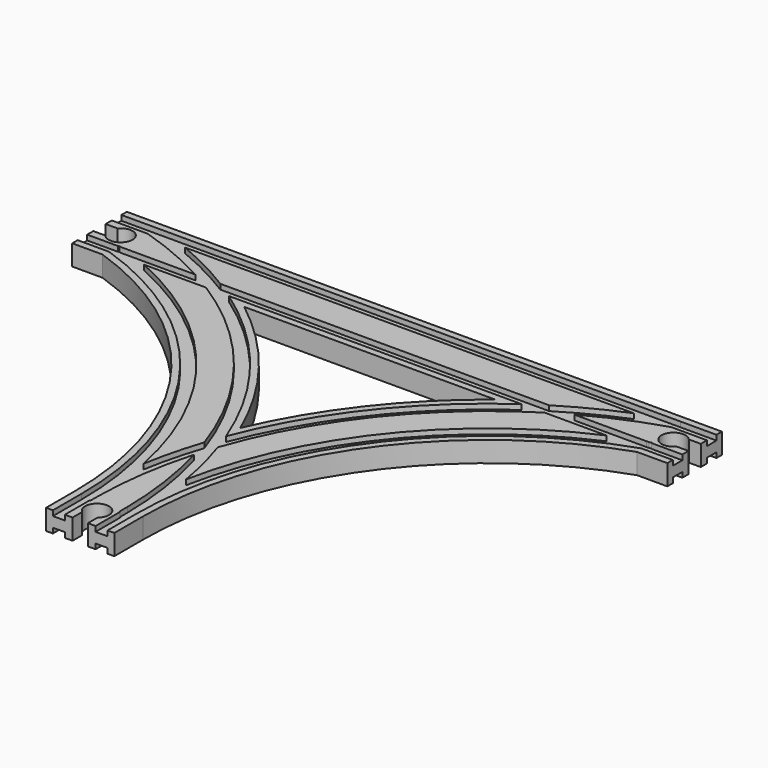
from build123d import *

# Parameters (mm, degrees)
SKETCH006_W          = 7
SKETCH006_H          = 3
SKETCH007_W          = 7
SKETCH007_H          = 3
SKETCH008_W          = 7
SKETCH008_H          = 3
SKETCH009_W          = 7
SKETCH009_H          = 3
SKETCH010_W          = 7
SKETCH010_H          = 3
SKETCH011_W          = 7
SKETCH011_H          = 3
SKETCH012_W          = 7
SKETCH012_H          = 3
SKETCH013_W          = 7
SKETCH013_H          = 3
SKETCH014_W          = 7
SKETCH014_H          = 3
SKETCH015_W          = 7
SKETCH015_H          = 3
SKETCH016_W          = 7
SKETCH016_H          = 3
SKETCH017_W          = 7
SKETCH017_H          = 3
POCKET_DEPTH         = 6.001
POCKET_DEPTH_BACK    = 6.001
POCKET001_DEPTH      = 6.001
POCKET001_DEPTH_BACK = 6.001
POCKET002_DEPTH      = 6.001
POCKET002_DEPTH_BACK = 6.001


with BuildPart() as part:
    # AdditivePipe: sweep along a path in Sketch
    with BuildLine(Plane.XY) as additivepipe_path:
        ThreePointArc((0, 0), (-42.398227, 130.488326), (-153.398227, 211.134547))
    # Sketch003 (on DatumPlane) → AdditivePipe (sweep)
    with BuildSketch(Plane.XZ):
        Polygon((-20, 6), (-20, -6), (-16, -6), (-16, -3), (-9, -3), (-9, -6), (9, -6), (9, -3), (16, -3), (16, -6), (20, -6), (20, 6), (16, 6), (16, 3), (9, 3), (9, 6), (-9, 6), (-9, 3), (-16, 3), (-16, 6), align=None)
    sweep(path=additivepipe_path.line)

    # AdditivePipe001: sweep along a path in Sketch001
    with BuildLine(Plane.XY) as additivepipe001_path:
        ThreePointArc((153.398227, 211.134547), (42.398227, 130.488326), (0, 0))
    # Sketch003 (on DatumPlane) → AdditivePipe001 (sweep)
    with BuildSketch(Plane.XZ):
        Polygon((-20, 6), (-20, -6), (-16, -6), (-16, -3), (-9, -3), (-9, -6), (9, -6), (9, -3), (16, -3), (16, -6), (20, -6), (20, 6), (16, 6), (16, 3), (9, 3), (9, 6), (-9, 6), (-9, 3), (-16, 3), (-16, 6), align=None)
    sweep(path=additivepipe001_path.line)

    # AdditivePipe002: sweep along a path in Sketch002
    with BuildLine(Plane.XY) as additivepipe002_path:
        Line((-174.398227, 211.134547), (-153.398227, 211.134547))
        Line((-153.398227, 211.134547), (153.398227, 211.134547))
        Line((153.398227, 211.134547), (174.398227, 211.134547))
    # Sketch004 (on DatumPlane) → AdditivePipe002 (sweep)
    with BuildSketch(Plane(origin=(-153.398227, 211.134547, 0), x_dir=(0, 1, 0), z_dir=(1, 0, 0))):
        Polygon((-20, 6), (-20, -6), (-16, -6), (-16, -3), (-9, -3), (-9, -6), (9, -6), (9, -3), (16, -3), (16, -6), (20, -6), (20, 6), (16, 6), (16, 3), (9, 3), (9, 6), (-9, 6), (-9, 3), (-16, 3), (-16, 6), align=None)
    sweep(path=additivepipe002_path.line)

    # AdditivePipe003: sweep along a path in Sketch005
    with BuildLine(Plane.XY) as additivepipe003_path:
        Line((0, 0), (0, -21))
    # Sketch003 (on DatumPlane) → AdditivePipe003 (sweep)
    with BuildSketch(Plane.XZ):
        Polygon((-20, 6), (-20, -6), (-16, -6), (-16, -3), (-9, -3), (-9, -6), (9, -6), (9, -3), (16, -3), (16, -6), (20, -6), (20, 6), (16, 6), (16, 3), (9, 3), (9, 6), (-9, 6), (-9, 3), (-16, 3), (-16, 6), align=None)
    sweep(path=additivepipe003_path.line)

    # SubtractivePipe: sweep along a path in Sketch
    with BuildLine(Plane.XY) as subtractivepipe_path:
        ThreePointArc((0, 0), (-42.398227, 130.488326), (-153.398227, 211.134547))
    # Sketch006 (on DatumPlane) → SubtractivePipe (sweep, cut)
    with BuildSketch(Plane.XZ):
        with Locations((-12.5, 4.5)):
            Rectangle(SKETCH006_W, SKETCH006_H)
    sweep(path=subtractivepipe_path.line, mode=Mode.SUBTRACT)

    # SubtractivePipe001: sweep along a path in Sketch001
    with BuildLine(Plane.XY) as subtractivepipe001_path:
        ThreePointArc((153.398227, 211.134547), (42.398227, 130.488326), (0, 0))
    # Sketch006 (on DatumPlane) → SubtractivePipe001 (sweep, cut)
    with BuildSketch(Plane.XZ):
        with Locations((-12.5, 4.5)):
            Rectangle(SKETCH006_W, SKETCH006_H)
    sweep(path=subtractivepipe001_path.line, mode=Mode.SUBTRACT)

    # SubtractivePipe002: sweep along a path in Sketch
    with BuildLine(Plane.XY) as subtractivepipe002_path:
        ThreePointArc((0, 0), (-42.398227, 130.488326), (-153.398227, 211.134547))
    # Sketch007 (on DatumPlane) → SubtractivePipe002 (sweep, cut)
    with BuildSketch(Plane.XZ):
        with Locations((12.5, 4.5)):
            Rectangle(SKETCH007_W, SKETCH007_H)
    sweep(path=subtractivepipe002_path.line, mode=Mode.SUBTRACT)

    # SubtractivePipe003: sweep along a path in Sketch001
    with BuildLine(Plane.XY) as subtractivepipe003_path:
        ThreePointArc((153.398227, 211.134547), (42.398227, 130.488326), (0, 0))
    # Sketch007 (on DatumPlane) → SubtractivePipe003 (sweep, cut)
    with BuildSketch(Plane.XZ):
        with Locations((12.5, 4.5)):
            Rectangle(SKETCH007_W, SKETCH007_H)
    sweep(path=subtractivepipe003_path.line, mode=Mode.SUBTRACT)

    # SubtractivePipe004: sweep along a path in Sketch002
    with BuildLine(Plane.XY) as subtractivepipe004_path:
        Line((-174.398227, 211.134547), (-153.398227, 211.134547))
        Line((-153.398227, 211.134547), (153.398227, 211.134547))
        Line((153.398227, 211.134547), (174.398227, 211.134547))
    # Sketch008 (on DatumPlane) → SubtractivePipe004 (sweep, cut)
    with BuildSketch(Plane(origin=(-153.398227, 211.134547, 0), x_dir=(0, 1, 0), z_dir=(1, 0, 0))):
        with Locations((-12.5, 4.5)):
            Rectangle(SKETCH008_W, SKETCH008_H)
    sweep(path=subtractivepipe004_path.line, mode=Mode.SUBTRACT)

    # SubtractivePipe005: sweep along a path in Sketch002
    with BuildLine(Plane.XY) as subtractivepipe005_path:
        Line((-174.398227, 211.134547), (-153.398227, 211.134547))
        Line((-153.398227, 211.134547), (153.398227, 211.134547))
        Line((153.398227, 211.134547), (174.398227, 211.134547))
    # Sketch009 (on DatumPlane) → SubtractivePipe005 (sweep, cut)
    with BuildSketch(Plane(origin=(-153.398227, 211.134547, 0), x_dir=(0, 1, 0), z_dir=(1, 0, 0))):
        with Locations((12.5, 4.5)):
            Rectangle(SKETCH009_W, SKETCH009_H)
    sweep(path=subtractivepipe005_path.line, mode=Mode.SUBTRACT)

    # SubtractivePipe006: sweep along a path in Sketch
    with BuildLine(Plane.XY) as subtractivepipe006_path:
        ThreePointArc((0, 0), (-42.398227, 130.488326), (-153.398227, 211.134547))
    # Sketch009 (on DatumPlane) → SubtractivePipe006 (sweep, cut)
    with BuildSketch(Plane(origin=(-153.398227, 211.134547, 0), x_dir=(0, 1, 0), z_dir=(1, 0, 0))):
        with Locations((12.5, 4.5)):
            Rectangle(SKETCH009_W, SKETCH009_H)
    sweep(path=subtractivepipe006_path.line, mode=Mode.SUBTRACT)

    # SubtractivePipe007: sweep along a path in Sketch
    with BuildLine(Plane.XY) as subtractivepipe007_path:
        ThreePointArc((0, 0), (-42.398227, 130.488326), (-153.398227, 211.134547))
    # Sketch008 (on DatumPlane) → SubtractivePipe007 (sweep, cut)
    with BuildSketch(Plane(origin=(-153.398227, 211.134547, 0), x_dir=(0, 1, 0), z_dir=(1, 0, 0))):
        with Locations((-12.5, 4.5)):
            Rectangle(SKETCH008_W, SKETCH008_H)
    sweep(path=subtractivepipe007_path.line, mode=Mode.SUBTRACT)

    # SubtractivePipe008: sweep along a path in Sketch
    with BuildLine(Plane.XY) as subtractivepipe008_path:
        ThreePointArc((0, 0), (-42.398227, 130.488326), (-153.398227, 211.134547))
    # Sketch010 (on DatumPlane) → SubtractivePipe008 (sweep, cut)
    with BuildSketch(Plane.XZ):
        with Locations((-12.5, -4.5)):
            Rectangle(SKETCH010_W, SKETCH010_H)
    sweep(path=subtractivepipe008_path.line, mode=Mode.SUBTRACT)

    # SubtractivePipe009: sweep along a path in Sketch001
    with BuildLine(Plane.XY) as subtractivepipe009_path:
        ThreePointArc((153.398227, 211.134547), (42.398227, 130.488326), (0, 0))
    # Sketch010 (on DatumPlane) → SubtractivePipe009 (sweep, cut)
    with BuildSketch(Plane.XZ):
        with Locations((-12.5, -4.5)):
            Rectangle(SKETCH010_W, SKETCH010_H)
    sweep(path=subtractivepipe009_path.line, mode=Mode.SUBTRACT)

    # SubtractivePipe010: sweep along a path in Sketch
    with BuildLine(Plane.XY) as subtractivepipe010_path:
        ThreePointArc((0, 0), (-42.398227, 130.488326), (-153.398227, 211.134547))
    # Sketch011 (on DatumPlane) → SubtractivePipe010 (sweep, cut)
    with BuildSketch(Plane.XZ):
        with Locations((12.5, -4.5)):
            Rectangle(SKETCH011_W, SKETCH011_H)
    sweep(path=subtractivepipe010_path.line, mode=Mode.SUBTRACT)

    # SubtractivePipe011: sweep along a path in Sketch001
    with BuildLine(Plane.XY) as subtractivepipe011_path:
        ThreePointArc((153.398227, 211.134547), (42.398227, 130.488326), (0, 0))
    # Sketch011 (on DatumPlane) → SubtractivePipe011 (sweep, cut)
    with BuildSketch(Plane.XZ):
        with Locations((12.5, -4.5)):
            Rectangle(SKETCH011_W, SKETCH011_H)
    sweep(path=subtractivepipe011_path.line, mode=Mode.SUBTRACT)

    # SubtractivePipe012: sweep along a path in Sketch
    with BuildLine(Plane.XY) as subtractivepipe012_path:
        ThreePointArc((0, 0), (-42.398227, 130.488326), (-153.398227, 211.134547))
    # Sketch012 (on DatumPlane) → SubtractivePipe012 (sweep, cut)
    with BuildSketch(Plane(origin=(-153.398227, 211.134547, 0), x_dir=(0, 1, 0), z_dir=(1, 0, 0))):
        with Locations((-12.5, -4.5)):
            Rectangle(SKETCH012_W, SKETCH012_H)
    sweep(path=subtractivepipe012_path.line, mode=Mode.SUBTRACT)

    # SubtractivePipe013: sweep along a path in Sketch002
    with BuildLine(Plane.XY) as subtractivepipe013_path:
        Line((-174.398227, 211.134547), (-153.398227, 211.134547))
        Line((-153.398227, 211.134547), (153.398227, 211.134547))
        Line((153.398227, 211.134547), (174.398227, 211.134547))
    # Sketch012 (on DatumPlane) → SubtractivePipe013 (sweep, cut)
    with BuildSketch(Plane(origin=(-153.398227, 211.134547, 0), x_dir=(0, 1, 0), z_dir=(1, 0, 0))):
        with Locations((-12.5, -4.5)):
            Rectangle(SKETCH012_W, SKETCH012_H)
    sweep(path=subtractivepipe013_path.line, mode=Mode.SUBTRACT)

    # SubtractivePipe014: sweep along a path in Sketch
    with BuildLine(Plane.XY) as subtractivepipe014_path:
        ThreePointArc((0, 0), (-42.398227, 130.488326), (-153.398227, 211.134547))
    # Sketch013 (on DatumPlane) → SubtractivePipe014 (sweep, cut)
    with BuildSketch(Plane(origin=(-153.398227, 211.134547, 0), x_dir=(0, 1, 0), z_dir=(1, 0, 0))):
        with Locations((12.5, -4.5)):
            Rectangle(SKETCH013_W, SKETCH013_H)
    sweep(path=subtractivepipe014_path.line, mode=Mode.SUBTRACT)

    # SubtractivePipe015: sweep along a path in Sketch002
    with BuildLine(Plane.XY) as subtractivepipe015_path:
        Line((-174.398227, 211.134547), (-153.398227, 211.134547))
        Line((-153.398227, 211.134547), (153.398227, 211.134547))
        Line((153.398227, 211.134547), (174.398227, 211.134547))
    # Sketch013 (on DatumPlane) → SubtractivePipe015 (sweep, cut)
    with BuildSketch(Plane(origin=(-153.398227, 211.134547, 0), x_dir=(0, 1, 0), z_dir=(1, 0, 0))):
        with Locations((12.5, -4.5)):
            Rectangle(SKETCH013_W, SKETCH013_H)
    sweep(path=subtractivepipe015_path.line, mode=Mode.SUBTRACT)

    # SubtractivePipe016: sweep along a path in Sketch001
    with BuildLine(Plane.XY) as subtractivepipe016_path:
        ThreePointArc((153.398227, 211.134547), (42.398227, 130.488326), (0, 0))
    # Sketch014 (on DatumPlane) → SubtractivePipe016 (sweep, cut)
    with BuildSketch(Plane(origin=(153.397773, 517.930547, 0), x_dir=(0, 1, 0), z_dir=(1, 0, 0))):
        with Locations((-319.296, 4.5)):
            Rectangle(SKETCH014_W, SKETCH014_H)
    sweep(path=subtractivepipe016_path.line, mode=Mode.SUBTRACT)

    # SubtractivePipe017: sweep along a path in Sketch001
    with BuildLine(Plane.XY) as subtractivepipe017_path:
        ThreePointArc((153.398227, 211.134547), (42.398227, 130.488326), (0, 0))
    # Sketch015 (on DatumPlane) → SubtractivePipe017 (sweep, cut)
    with BuildSketch(Plane(origin=(153.397773, 517.930547, 0), x_dir=(0, 1, 0), z_dir=(1, 0, 0))):
        with Locations((-294.296, 4.5)):
            Rectangle(SKETCH015_W, SKETCH015_H)
    sweep(path=subtractivepipe017_path.line, mode=Mode.SUBTRACT)

    # SubtractivePipe018: sweep along a path in Sketch001
    with BuildLine(Plane.XY) as subtractivepipe018_path:
        ThreePointArc((153.398227, 211.134547), (42.398227, 130.488326), (0, 0))
    # Sketch016 (on DatumPlane) → SubtractivePipe018 (sweep, cut)
    with BuildSketch(Plane(origin=(153.397773, 517.930547, 0), x_dir=(0, 1, 0), z_dir=(1, 0, 0))):
        with Locations((-319.296, -4.5)):
            Rectangle(SKETCH016_W, SKETCH016_H)
    sweep(path=subtractivepipe018_path.line, mode=Mode.SUBTRACT)

    # SubtractivePipe019: sweep along a path in Sketch001
    with BuildLine(Plane.XY) as subtractivepipe019_path:
        ThreePointArc((153.398227, 211.134547), (42.398227, 130.488326), (0, 0))
    # Sketch017 (on DatumPlane) → SubtractivePipe019 (sweep, cut)
    with BuildSketch(Plane(origin=(153.397773, 517.930547, 0), x_dir=(0, 1, 0), z_dir=(1, 0, 0))):
        with Locations((-294.296, -4.5)):
            Rectangle(SKETCH017_W, SKETCH017_H)
    sweep(path=subtractivepipe019_path.line, mode=Mode.SUBTRACT)

    # Sketch018 → Pocket (cut, two sides)
    with BuildSketch(Plane.XY) as pocket_sk:
        with BuildLine():
            Line((-174.398227, 206.634547), (-174.398227, 215.634547))
            Line((-174.398227, 215.634547), (-167.398227, 215.634547))
            ThreePointArc((-167.398227, 206.634547), (-155.036325, 211.134547), (-167.398227, 215.634547))
            Line((-174.398227, 206.634547), (-167.398227, 206.634547))
        make_face()
    extrude(amount=-POCKET_DEPTH, mode=Mode.SUBTRACT)
    extrude(pocket_sk.sketch, amount=POCKET_DEPTH_BACK, mode=Mode.SUBTRACT)

    # Sketch019 → Pocket001 (cut, two sides)
    with BuildSketch(Plane.XY) as pocket001_sk:
        with BuildLine():
            Line((174.398227, 206.634547), (174.398227, 215.634547))
            Line((174.398227, 215.634547), (167.398227, 215.634547))
            ThreePointArc((167.398227, 215.634547), (155.036325, 211.134547), (167.398227, 206.634547))
            Line((174.398227, 206.634547), (167.398227, 206.634547))
        make_face()
    extrude(amount=-POCKET001_DEPTH, mode=Mode.SUBTRACT)
    extrude(pocket001_sk.sketch, amount=POCKET001_DEPTH_BACK, mode=Mode.SUBTRACT)

    # Sketch020 → Pocket002 (cut, two sides)
    with BuildSketch(Plane.XY) as pocket002_sk:
        with BuildLine():
            Line((-4.5, -21), (4.5, -21))
            Line((4.5, -21), (4.5, -14))
            ThreePointArc((4.5, -14), (0, -1.638097), (-4.5, -14))
            Line((-4.5, -21), (-4.5, -14))
        make_face()
    extrude(amount=-POCKET002_DEPTH, mode=Mode.SUBTRACT)
    extrude(pocket002_sk.sketch, amount=POCKET002_DEPTH_BACK, mode=Mode.SUBTRACT)


solid = part.part
